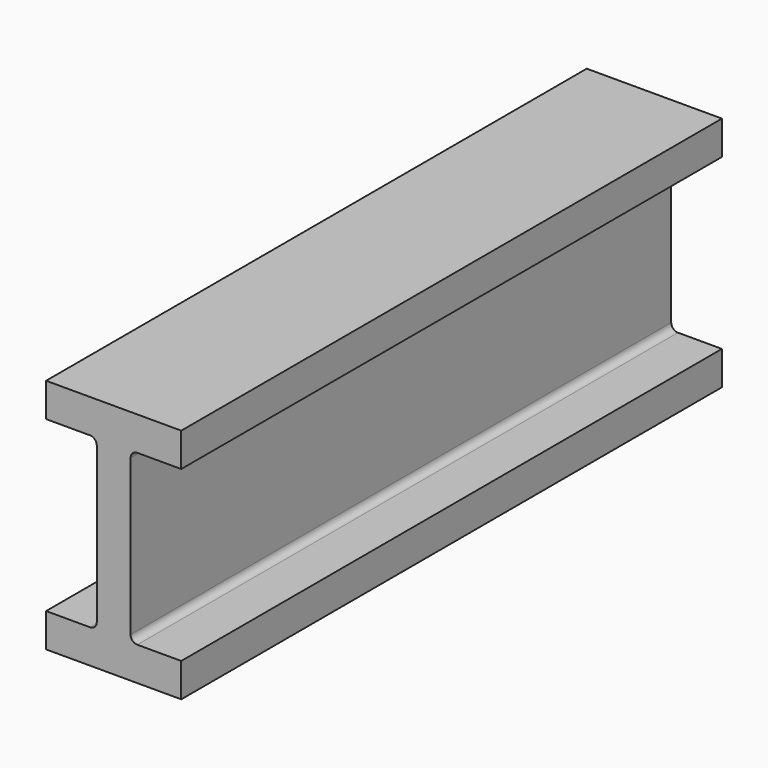
from build123d import *

# Parameters (mm, degrees)
F1_DEPTH = 2540


with BuildPart() as f1:
    # F0 (on Front) → F1 (new body)
    with BuildSketch(Plane.XZ):
        with BuildLine():
            Line((-637.901507, -82.404926), (-129.901507, -82.404926))
            Line((-129.901507, -82.404926), (-129.901507, 44.595074))
            Line((-129.901507, 44.595074), (-295.001507, 44.595074))
            ThreePointArc((-295.001507, 44.595074), (-312.962019, 52.034562), (-320.401507, 69.995074))
            Line((-320.401507, 69.995074), (-320.401507, 654.195074))
            ThreePointArc((-320.401507, 654.195074), (-312.962019, 672.155587), (-295.001507, 679.595074))
            Line((-295.001507, 679.595074), (-129.901507, 679.595074))
            Line((-129.901507, 679.595074), (-129.901507, 806.595074))
            Line((-129.901507, 806.595074), (-637.901507, 806.595074))
            Line((-637.901507, 806.595074), (-637.901507, 679.595074))
            Line((-637.901507, 679.595074), (-472.801507, 679.595074))
            ThreePointArc((-472.801507, 679.595074), (-454.840994, 672.155587), (-447.401507, 654.195074))
            Line((-447.401507, 654.195074), (-447.401507, 69.995074))
            ThreePointArc((-447.401507, 69.995074), (-454.840994, 52.034562), (-472.801507, 44.595074))
            Line((-472.801507, 44.595074), (-637.901507, 44.595074))
            Line((-637.901507, 44.595074), (-637.901507, -82.404926))
        make_face()
    extrude(amount=F1_DEPTH)


solid = f1.part
